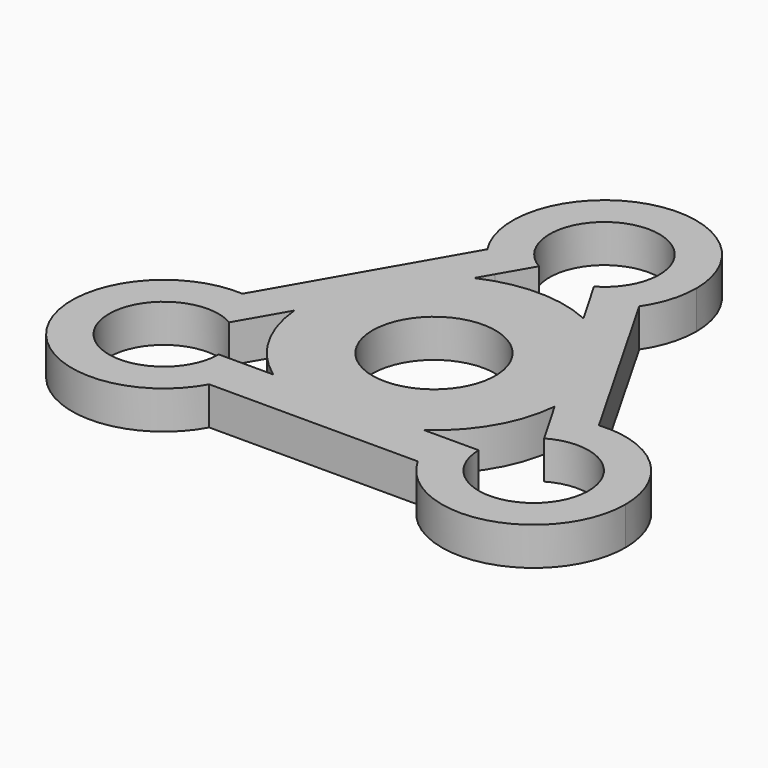
from build123d import *

# Parameters (mm, degrees)
F1_DEPTH = 9.9
F2_R     = 34.0204521672
F3_DEPTH = 9.9
F4_D     = 28.6
F5_D     = 32


with BuildPart() as f1:
    # F0 (on Top) → F1 (new body)
    with BuildSketch(Plane.XY):
        with BuildLine():
            Line((-11.9994940177, 34.8422084712), (-0.0575622945, 55.5758049985))
            Line((-0.0575622945, 55.5758049985), (11.9272931484, 34.8669904922))
            ThreePointArc((11.9272931484, 34.8669904922), (16.2473796766, 38.0646478249), (19.7447123991, 42.1459250585))
            ThreePointArc((19.7447123991, 42.1459250585), (22.8148755334, 48.5513230922), (23.8692377055, 55.5758049985))
            ThreePointArc((23.8692377055, 55.5758049985), (-6.8934905458, 78.5053022276), (-20.0782891833, 42.4738107578))
            ThreePointArc((-20.0782891833, 42.4738107578), (-16.4881199464, 38.1824576068), (-11.9994940177, 34.8422084712))
        make_face()
        with BuildLine():
            ThreePointArc((19.7447123991, 42.1459250585), (16.2473796766, 38.0646478249), (11.9272931484, 34.8669904922))
            Line((11.9272931484, 34.8669904922), (36.1831113199, -7.0450076633))
            ThreePointArc((36.1831113199, -7.0450076633), (40.9619383877, -4.9383860109), (46.084167971, -3.9196578694))
            Line((46.084167971, -3.9196578694), (19.7447123991, 42.1459250585))
        make_face()
        with BuildLine():
            Line((-36.1522240312, -7.0917910472), (-11.9994940177, 34.8422084712))
            ThreePointArc((-11.9994940177, 34.8422084712), (-16.4881199464, 38.1824576068), (-20.0782891833, 42.4738107578))
            Line((-20.0782891833, 42.4738107578), (-46.7444930565, -3.9351598474))
            ThreePointArc((-46.7444930565, -3.9351598474), (-41.2637040523, -4.8938560089), (-36.1522240312, -7.0917910472))
        make_face()
        with BuildLine():
            ThreePointArc((46.084167971, -3.9196578694), (40.9619383877, -4.9383860109), (36.1831113199, -7.0450076633))
            Line((36.1831113199, -7.0450076633), (48.1588401117, -27.7380520899))
            Line((48.1588401117, -27.7380520899), (24.2502735607, -27.7628152391))
            ThreePointArc((24.2502735607, -27.7628152391), (25.0126751704, -33.7276444175), (27.2392931133, -39.3135745888))
            ThreePointArc((27.2392931133, -39.3135745888), (54.1364448927, -50.8873157676), (72.0674194868, -27.7380520899))
            ThreePointArc((72.0674194868, -27.7380520899), (64.3146084961, -10.1138835806), (46.084167971, -3.9196578694))
        make_face()
        with BuildLine():
            Line((-48.1012778172, -27.8377529085), (-36.1522240312, -7.0917910472))
            ThreePointArc((-36.1522240312, -7.0917910472), (-41.2637040523, -4.8938560089), (-46.7444930565, -3.9351598474))
            ThreePointArc((-46.7444930565, -3.9351598474), (-69.0295446869, -39.464552372), (-27.0898443417, -39.3135745888))
            ThreePointArc((-27.0898443417, -39.3135745888), (-24.9041765549, -33.7596878084), (-24.1602080848, -27.8377529085))
            ThreePointArc((-24.1602080848, -27.8377529085), (-24.1602112952, -27.8253545065), (-24.1602209263, -27.8129561077))
            Line((-24.1602209263, -27.8129561077), (-48.1012778172, -27.8377529085))
        make_face()
        with BuildLine():
            ThreePointArc((27.2392931133, -39.3135745888), (25.0126751704, -33.7276444175), (24.2502735607, -27.7628152391))
            Line((24.2502735607, -27.7628152391), (-24.1602209263, -27.8129561077))
            ThreePointArc((-24.1602209263, -27.8129561077), (-24.1602112952, -27.8253545065), (-24.1602080848, -27.8377529085))
            ThreePointArc((-24.1602080848, -27.8377529085), (-24.9041765549, -33.7596878084), (-27.0898443417, -39.3135745888))
            Line((-27.0898443417, -39.3135745888), (27.2392931133, -39.3135745888))
        make_face()
    extrude(amount=F1_DEPTH)

    # F2 (on Top) → F3 (join)
    with BuildSketch(Plane.XY):
        Circle(F2_R)
    extrude(amount=F3_DEPTH)

    # F4 (through all)
    with Locations(Plane(origin=(0, 0, 0), x_dir=(1, 0, 0), z_dir=(0, 0, -1))):
        with Locations((-0.0575622945, -55.5758049985), (48.1588401117, 27.7380520899), (-48.1012778172, 27.8377529085)):
            Hole(F4_D / 2)

    # F5 (through all)
    with Locations(Plane(origin=(0, 0, 0), x_dir=(1, 0, 0), z_dir=(0, 0, -1))):
        with Locations((0, 0)):
            Hole(F5_D / 2)


solid = f1.part
